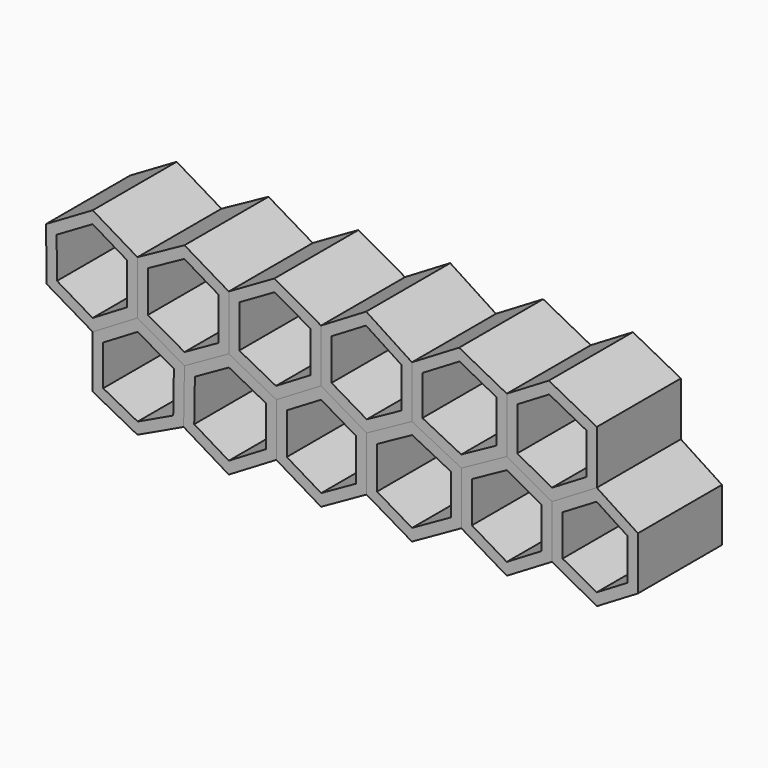
from build123d import *

# Parameters (mm, degrees)
F1_DEPTH = 25.4
F2_T     = -2.54
F2_2_T   = -2.54
F2_3_T   = -2.54
F2_4_T   = -2.54
F3_DEPTH = 25.4
F4_T     = -2.54
F4_2_T   = -2.54
F5_DEPTH = 25.4
F6_T     = -2.54
F6_2_T   = -2.54
F6_3_T   = -2.54
F7_DEPTH = 25.4
F8_T     = -2.54
F8_2_T   = -2.54
F8_3_T   = -2.54


with BuildPart() as f1:
    # F0 (on Front) → F1 (new body)
    with BuildSketch(Plane.XZ):
        Polygon((-61.5940727293, 51.5516251326), (-72.864562273, 44.9678711593), (-72.7529749274, 32.2467274964), (-61.5940727293, 25.6629791111), (-50.7699437439, 32.1351401508), (-50.7699437439, 45.0794622302), align=None)
    extrude(amount=F1_DEPTH)

    # F2
    f2_openings = [f1.faces().sort_by_distance(p)[0] for p in [
        (-61.74627, -25.4, 38.618194),
    ]]
    offset(amount=F2_T, openings=f2_openings)


with BuildPart() as f1b:
    # F0 (on Front) → F1, piece 2 (new body)
    with BuildSketch(Plane.XZ):
        Polygon((60.3489740883, 32.1351401508), (49.5248446372, 25.6629791111), (49.5248446372, 12.8440149128), (60.3489740883, 6.9012749916), (70.2876925175, 12.8440149128), (70.2876925175, 25.6629791111), align=None)
    extrude(amount=F1_DEPTH)

    # F2#4
    f2_4_openings = [f1b.faces().sort_by_distance(p)[0] for p in [
        (59.954413, -25.4, 19.400246),
    ]]
    offset(amount=F2_4_T, openings=f2_4_openings)


with BuildPart() as f1c:
    # F0 (on Front) → F1, piece 3 (new body)
    with BuildSketch(Plane.XZ):
        Polygon((27.0402601768, 51.1265959709), (15.6271588057, 44.3022660911), (15.6271588057, 31.6887833178), (27.5959409939, 25.6629791111), (38.5746085251, 31.6887833178), (38.5746085251, 45.0794622302), align=None)
    extrude(amount=F1_DEPTH)

    # F2#3
    f2_3_openings = [f1c.faces().sort_by_distance(p)[0] for p in [
        (27.200622, -25.4, 38.305136),
    ]]
    offset(amount=F2_3_T, openings=f2_3_openings)


with BuildPart() as f1d:
    # F0 (on Front) → F1, piece 4 (new body)
    with BuildSketch(Plane.XZ):
        Polygon((-6.3575296663, 32.1351401508), (-17.1816591173, 25.6629791111), (-17.1816591173, 12.8440149128), (-6.3575296663, 6.3716262644), (4.6484912746, 12.5625114888), (4.6484912746, 25.6629791111), align=None)
    extrude(amount=F1_DEPTH)

    # F2#2
    f2_2_openings = [f1d.faces().sort_by_distance(p)[0] for p in [
        (-6.25016, -25.4, 19.221692),
    ]]
    offset(amount=F2_2_T, openings=f2_2_openings)


with BuildPart() as f3:
    # F0 (on Front) → F3 (new body)
    with BuildSketch(Plane.XZ):
        Polygon((-39.3878668547, 51.3284467161), (-50.7699437439, 45.0794622302), (-50.7699437439, 32.1351401508), (-39.3878668547, 25.6629791111), (-28.6753233522, 31.6887833178), (-28.6753233522, 44.9678711593), align=None)
    extrude(amount=F3_DEPTH)

    # F4
    f4_openings = [f3.faces().sort_by_distance(p)[0] for p in [
        (-39.654723, -25.4, 38.484754),
    ]]
    offset(amount=F4_T, openings=f4_openings)


with BuildPart() as f3b:
    # F0 (on Front) → F3, piece 2 (new body)
    with BuildSketch(Plane.XZ):
        Polygon((4.5707236695, 51.5022918526), (-6.3575296663, 44.9678711593), (-6.3575296663, 32.1351401508), (4.6484912746, 25.6629791111), (15.6271588057, 31.6887833178), (15.6271588057, 44.3022660911), align=None)
    extrude(amount=F3_DEPTH)

    # F4#2
    f4_2_openings = [f3b.faces().sort_by_distance(p)[0] for p in [
        (4.610916, -25.4, 38.445761),
    ]]
    offset(amount=F4_2_T, openings=f4_2_openings)


with BuildPart() as f5:
    # F0 (on Front) → F5 (new body)
    with BuildSketch(Plane.XZ):
        Polygon((-17.6280140877, 51.3284467161), (-28.6753233522, 44.9678711593), (-28.6753233522, 31.6887833178), (-17.1816591173, 25.6629791111), (-6.3575296663, 32.1351401508), (-6.3575296663, 44.9678711593), align=None)
    extrude(amount=F5_DEPTH)

    # F6#2
    f6_2_openings = [f5.faces().sort_by_distance(p)[0] for p in [
        (-17.547381, -25.4, 38.46892),
    ]]
    offset(amount=F6_2_T, openings=f6_2_openings)


with BuildPart() as f5b:
    # F0 (on Front) → F5, piece 2 (new body)
    with BuildSketch(Plane.XZ):
        Polygon((-50.7699437439, 32.1351401508), (-61.5940727293, 25.6629791111), (-61.5940727293, 12.9378493875), (-50.7699437439, 7.2630636411), (-39.5974330604, 12.5625114888), (-39.3878668547, 25.6629791111), align=None)
    extrude(amount=F5_DEPTH)

    # F6
    f6_openings = [f5b.faces().sort_by_distance(p)[0] for p in [
        (-50.529505, -25.4, 19.497361),
    ]]
    offset(amount=F6_T, openings=f6_openings)


with BuildPart() as f5c:
    # F0 (on Front) → F5, piece 3 (new body)
    with BuildSketch(Plane.XZ):
        Polygon((38.5746085251, 31.6887833178), (27.5959409939, 25.6629791111), (27.5959409939, 12.8440149128), (38.5746085251, 6.2964498767), (49.5248446372, 12.8440149128), (49.5248446372, 25.6629791111), align=None)
    extrude(amount=F5_DEPTH)

    # F6#3
    f6_3_openings = [f5c.faces().sort_by_distance(p)[0] for p in [
        (38.561952, -25.4, 19.10875),
    ]]
    offset(amount=F6_3_T, openings=f6_3_openings)


with BuildPart() as f7:
    # F0 (on Front) → F7 (new body)
    with BuildSketch(Plane.XZ):
        Polygon((-28.6753233522, 31.6887833178), (-39.3878668547, 25.6629791111), (-39.5974330604, 12.5625114888), (-28.6753233522, 5.9715134151), (-17.1816591173, 12.8440149128), (-17.1816591173, 25.6629791111), align=None)
    extrude(amount=F7_DEPTH)

    # F8
    f8_openings = [f7.faces().sort_by_distance(p)[0] for p in [
        (-28.402018, -25.4, 18.967798),
    ]]
    offset(amount=F8_T, openings=f8_openings)


with BuildPart() as f7b:
    # F0 (on Front) → F7, piece 2 (new body)
    with BuildSketch(Plane.XZ):
        Polygon((15.6271588057, 31.6887833178), (4.6484912746, 25.6629791111), (4.6484912746, 12.5625114888), (15.6271588057, 6.1115766229), (27.5959409939, 12.8440149128), (27.5959409939, 25.6629791111), align=None)
    extrude(amount=F7_DEPTH)

    # F8#2
    f8_2_openings = [f7b.faces().sort_by_distance(p)[0] for p in [
        (16.040262, -25.4, 19.027382),
    ]]
    offset(amount=F8_2_T, openings=f8_2_openings)


with BuildPart() as f7c:
    # F0 (on Front) → F7, piece 3 (new body)
    with BuildSketch(Plane.XZ):
        Polygon((48.7471123109, 51.1619913589), (38.5746085251, 45.0794622302), (38.5746085251, 31.6887833178), (49.5248446372, 25.6629791111), (60.3489740883, 32.1351401508), (60.3489740883, 45.0794622302), align=None)
    extrude(amount=F7_DEPTH)

    # F8#3
    f8_3_openings = [f7c.faces().sort_by_distance(p)[0] for p in [
        (49.385824, -25.4, 38.448957),
    ]]
    offset(amount=F8_3_T, openings=f8_3_openings)


solid = Compound([f1.part, f1b.part, f1c.part, f1d.part, f3.part, f3b.part, f5.part, f5b.part, f5c.part, f7.part, f7b.part, f7c.part])
